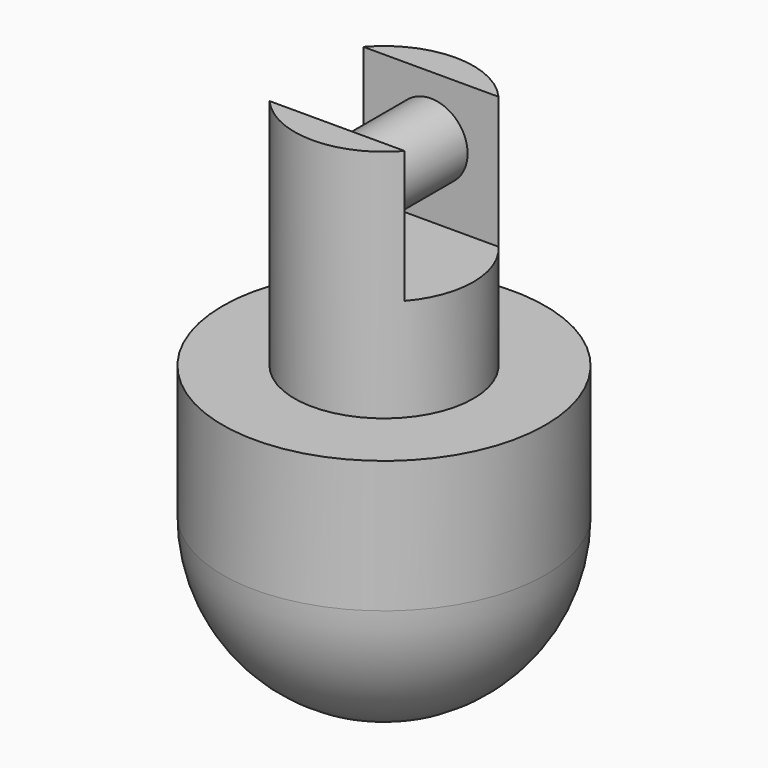
from build123d import *

# Parameters (mm, degrees)
F0_R     = 7.747
F1_DEPTH = 20.32
F0_R_2   = 13.97
F2_DEPTH = 25.4
F3_R     = 13.97
F5_DEPTH = 11.43
F6_R     = 3.175
F7_DEPTH = 6.35


with BuildPart() as f1:
    # F0 (on Top) → F1 (new body)
    with BuildSketch(Plane.XY):
        Circle(F0_R)
    extrude(amount=F1_DEPTH)

    # F0 (on Top) → F2 (join)
    with BuildSketch(Plane.XY):
        Circle(F0_R_2)
        Circle(F0_R, mode=Mode.SUBTRACT)
        Circle(F0_R)
    extrude(amount=-F2_DEPTH)

    # F3
    f3_edges = [f1.edges().sort_by_distance(p)[0] for p in [
        (-13.97, 0, -25.4),
    ]]
    fillet(f3_edges, radius=F3_R)

    # F4 (on face) → F5 (cut)
    with BuildSketch(Plane.XY.offset(20.32)):
        with BuildLine():
            Line((10.1125147194, 5.08), (5.8488981014, 5.08))
            ThreePointArc((5.8488981014, 5.08), (7.2569767325, 2.7115120698), (7.747, 0))
            ThreePointArc((7.747, 0), (7.2569767325, -2.7115120698), (5.8488981014, -5.08))
            Line((5.8488981014, -5.08), (10.1125147194, -5.08))
            Line((10.1125147194, -5.08), (10.1125147194, 5.08))
        make_face()
        with BuildLine():
            Line((5.8488981014, 5.08), (-5.8488981014, 5.08))
            ThreePointArc((-5.8488981014, 5.08), (-7.747, 0), (-5.8488981014, -5.08))
            Line((-5.8488981014, -5.08), (5.8488981014, -5.08))
            ThreePointArc((5.8488981014, -5.08), (7.2569767325, -2.7115120698), (7.747, 0))
            ThreePointArc((7.747, 0), (7.2569767325, 2.7115120698), (5.8488981014, 5.08))
        make_face()
        with BuildLine():
            Line((-5.8488981014, 5.08), (-9.6324700862, 5.08))
            Line((-9.6324700862, 5.08), (-9.6324700862, -5.08))
            Line((-9.6324700862, -5.08), (-5.8488981014, -5.08))
            ThreePointArc((-5.8488981014, -5.08), (-7.747, 0), (-5.8488981014, 5.08))
        make_face()
    extrude(amount=-F5_DEPTH, mode=Mode.SUBTRACT)

    # F6 (on Front) → F7 (join, symmetric)
    with BuildSketch(Plane.XZ):
        with Locations((0, 15.116378665)):
            Circle(F6_R)
    extrude(amount=F7_DEPTH, both=True)


solid = f1.part
